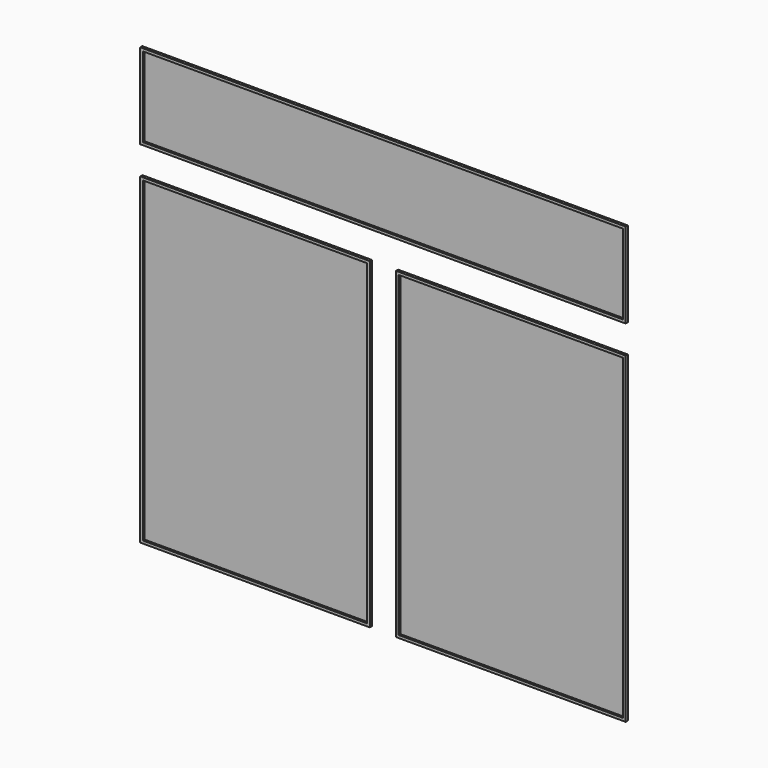
from build123d import *

# Parameters (mm, degrees)
F0_W      = 841
F0_H      = 1189
F1_DEPTH  = 2
F2_W      = 921
F2_H      = 1269
F2_W_2    = 841
F2_H_2    = 1189
F3_DEPTH  = 10
F6_W      = 1880
F6_H      = 380
F6_W_2    = 1800
F6_H_2    = 300
F7_DEPTH  = 10
F8_W      = 1800
F8_H      = 300
F9_DEPTH  = 2
F10_W     = 1908.451933
F10_H     = 1724.52875
F10_W_2   = 1820
F10_H_2   = 1634.971202
F11_DEPTH = 25
F12_W     = 1820
F12_H     = 105.971202
F13_DEPTH = 25
F14_W     = 98
F14_H     = 1209
F15_DEPTH = 25


with BuildPart() as f1:
    # F0 (on Front) → F1 (new body)
    with BuildSketch(Plane.XZ):
        with Locations((-372.30434, 537.699918)):
            Rectangle(F0_W, F0_H)
    extrude(amount=F1_DEPTH)

    # F2 (on face) → F3 (join)
    with BuildSketch(Plane(origin=(0, 0, 0), x_dir=(-1, 0, 0), z_dir=(0, 1, 0))):
        with Locations((372.30434, 537.699918)):
            Rectangle(F2_W, F2_H)
        with Locations((372.30434, 537.699918)):
            Rectangle(F2_W_2, F2_H_2, mode=Mode.SUBTRACT)
    extrude(amount=-F3_DEPTH)


with BuildPart() as f5_1:
    # F5: instance of F1
    add(f1.part.mirror(Plane(origin=(107.19566, -6, 537.699918), x_dir=(0, 1, 0), z_dir=(1, 0, 0))))


with BuildPart() as f7:
    # F6 (on face) → F7 (new body, through all)
    with BuildSketch(Plane.XZ.offset(10)):
        with Locations((107.19566, 1408.17112)):
            Rectangle(F6_W, F6_H)
        with Locations((107.19566, 1408.17112)):
            Rectangle(F6_W_2, F6_H_2, mode=Mode.SUBTRACT)
    extrude(amount=-F7_DEPTH)

    # F8 (on face) → F9 (join, through all)
    with BuildSketch(Plane.XZ.offset(2)):
        with Locations((107.19566, 1408.17112)):
            Rectangle(F8_W, F8_H)
    extrude(amount=-F9_DEPTH)


with BuildPart() as f11_tool:
    # F10 (on face) → F11 (new body)
    with BuildSketch(Plane.XZ.offset(10)):
        with Locations((121.421627, 735.906745)):
            Rectangle(F10_W, F10_H)
        with Locations((107.19566, 750.685519)):
            Rectangle(F10_W_2, F10_H_2, mode=Mode.SUBTRACT)
    extrude(amount=-F11_DEPTH)


with BuildPart() as f1_1:
    add(f1.part)

    # F11: cut by f11_tool
    add(f11_tool.part, mode=Mode.SUBTRACT)


with BuildPart() as f5_1_1:
    add(f5_1.part)

    # F11: cut by f11_tool
    add(f11_tool.part, mode=Mode.SUBTRACT)


with BuildPart() as f7_1:
    add(f7.part)

    # F11: cut by f11_tool
    add(f11_tool.part, mode=Mode.SUBTRACT)


with BuildPart() as f13_tool:
    # F12 (on face) → F13 (new body)
    with BuildSketch(Plane.XZ.offset(10)):
        with Locations((107.19566, 1195.185519)):
            Rectangle(F12_W, F12_H)
    extrude(amount=-F13_DEPTH)


with BuildPart() as f1_2:
    add(f1_1.part)

    # F13: cut by f13_tool
    add(f13_tool.part, mode=Mode.SUBTRACT)


with BuildPart() as f5_1_2:
    add(f5_1_1.part)

    # F13: cut by f13_tool
    add(f13_tool.part, mode=Mode.SUBTRACT)


with BuildPart() as f7_2:
    add(f7_1.part)

    # F13: cut by f13_tool
    add(f13_tool.part, mode=Mode.SUBTRACT)


with BuildPart() as f15_tool:
    # F14 (on face) → F15 (new body)
    with BuildSketch(Plane.XZ.offset(10)):
        with Locations((107.19566, 537.699918)):
            Rectangle(F14_W, F14_H)
    extrude(amount=-F15_DEPTH)


with BuildPart() as f1_3:
    add(f1_2.part)

    # F15: cut by f15_tool
    add(f15_tool.part, mode=Mode.SUBTRACT)


with BuildPart() as f5_1_3:
    add(f5_1_2.part)

    # F15: cut by f15_tool
    add(f15_tool.part, mode=Mode.SUBTRACT)


solid = Compound([f7_2.part, f1_3.part, f5_1_3.part])
